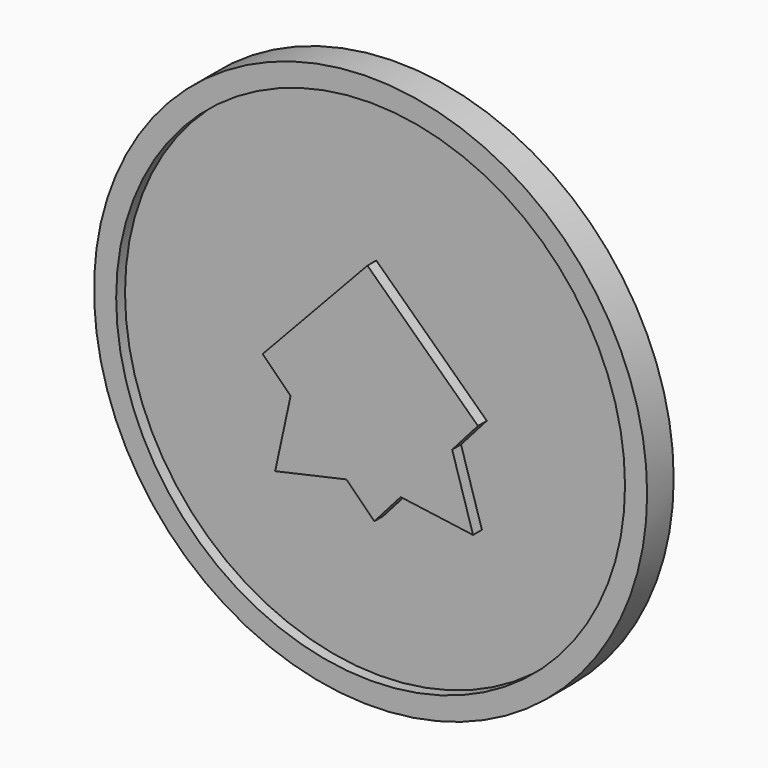
from build123d import *

# Parameters (mm, degrees)
F0_R     = 25
F1_DEPTH = 1.5
F2_R     = 23
F3_DEPTH = 1
F5_DEPTH = 1
F7_DEPTH = 1


with BuildPart() as f1:
    # F0 (on Front) → F1 (new body, symmetric)
    with BuildSketch(Plane.XZ):
        Circle(F0_R)
    extrude(amount=F1_DEPTH, both=True)

    # F2 (on face) → F3 (cut)
    with BuildSketch(Plane.XZ.offset(1.5)):
        Circle(F2_R)
    extrude(amount=-F3_DEPTH, mode=Mode.SUBTRACT)

    # F4 (on face) → F5 (join)
    with BuildSketch(Plane.XZ.offset(0.5)):
        Polygon((9.7037305963, 0.4278131442), (-0.2857921618, 9.9359199418), (-9.7544326689, -0.1756772261), (0.3401018036, -10.2059959115), align=None)
    extrude(amount=F5_DEPTH)

    # F6 (on face) → F7 (join)
    with BuildSketch(Plane.XZ.offset(0.5)):
        Polygon((7.3748351342, -2.2169979865), (2.7204787029, -7.5027198647), (9.2619833934, -8.3943828612), align=None)
        Polygon((-2.1856052259, -7.6963560187), (-7.2287256394, -2.6853171189), (-8.6267801345, -9.1355453032), align=None)
    extrude(amount=F7_DEPTH)


solid = f1.part
